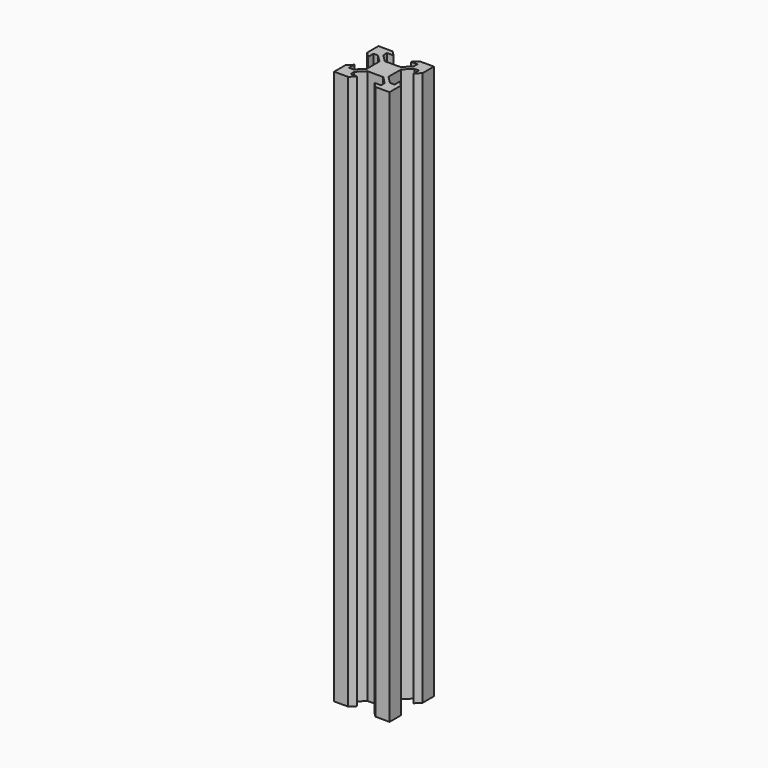
from build123d import *

# Parameters (mm, degrees)
PAD_DEPTH            = 100
PAD_MIRRORED_2_DEPTH = 100
POLARPATTERN_COUNT   = 4


with BuildPart() as part:
    # Sketch → Pad (new body, symmetric)
    with BuildSketch(Plane.XY):
        Polygon((10, 10), (4.9, 10), (3.1, 8.2), (5.49934, 8.2), (5.49934, 6.56), (2.84, 3.90066), (0, 3.90066), (0, 0), align=None)
    pad = extrude(amount=PAD_DEPTH, both=True)

    # Sketch Mirrored 2 → Pad Mirrored 2 (add, symmetric)
    with BuildSketch(Plane(origin=(0, 0, 0), x_dir=(-1, 0, 0), z_dir=(0, 0, -1))):
        Polygon((10, 10), (4.9, 10), (3.1, 8.2), (5.49934, 8.2), (5.49934, 6.56), (2.84, 3.90066), (0, 3.90066), (0, 0), align=None)
    pad_mirrored_2 = extrude(amount=-PAD_MIRRORED_2_DEPTH, both=True)

    # PolarPattern: Pad, Pad Mirrored 2 ×4 about axis
    polarpattern_axis = Axis((0, 0, 0), (0, 0, 1))
    for i in range(1, POLARPATTERN_COUNT):
        add(pad.rotate(polarpattern_axis, i * 360 / POLARPATTERN_COUNT))
        add(pad_mirrored_2.rotate(polarpattern_axis, i * 360 / POLARPATTERN_COUNT))


solid = part.part
